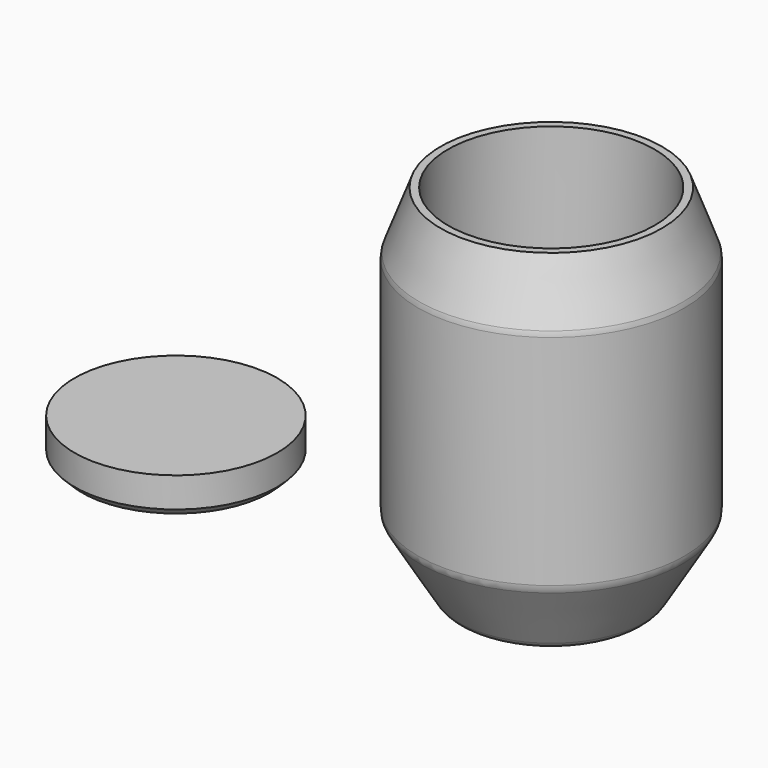
from build123d import *

# Parameters (mm, degrees)
F0_R     = 17.75
F0_R_2   = 13.75
F0_R_3   = 9.75
F0_R_4   = 5
F1_DEPTH = 20
F2_DEPTH = 26
F3_DEPTH = 48
F4_SIZE2 = 6
F4_SIZE  = 10
F5_SIZE2 = 8
F5_SIZE  = 3
F0_R_5   = 13.5
F6_DEPTH = 5
F7_SIZE  = 1
F8_R     = 2


with BuildPart() as f1:
    # F0 (on Top) → F1 (new body)
    with BuildSketch(Plane.XY):
        Circle(F0_R)
        Circle(F0_R_2, mode=Mode.SUBTRACT)
        Circle(F0_R_2)
        Circle(F0_R_3, mode=Mode.SUBTRACT)
        Circle(F0_R_3)
        Circle(F0_R_4, mode=Mode.SUBTRACT)
    extrude(amount=F1_DEPTH)

    # F0 (on Top) → F2 (join)
    with BuildSketch(Plane.XY):
        Circle(F0_R)
        Circle(F0_R_2, mode=Mode.SUBTRACT)
        Circle(F0_R_2)
        Circle(F0_R_3, mode=Mode.SUBTRACT)
    extrude(amount=F2_DEPTH)

    # F0 (on Top) → F3 (join)
    with BuildSketch(Plane.XY):
        Circle(F0_R)
        Circle(F0_R_2, mode=Mode.SUBTRACT)
    extrude(amount=F3_DEPTH)

    # F4
    f4_edges = [f1.edges().sort_by_distance(p)[0] for p in [
        (-17.75, 0, 0),
    ]]
    f4_side = f1.faces().sort_by_distance((-17.75, 0, 24))[0]
    chamfer(f4_edges, length=F4_SIZE, length2=F4_SIZE2, reference=f4_side)

    # F5
    f5_edges = [f1.edges().sort_by_distance(p)[0] for p in [
        (-17.75, 0, 48),
    ]]
    f5_side = f1.faces().sort_by_distance((-17.247954, 0, 48))[0]
    chamfer(f5_edges, length=F5_SIZE, length2=F5_SIZE2, reference=f5_side)

    # F8
    f8_edges = [f1.edges().sort_by_distance(p)[0] for p in [
        (-9.75, 0, 26),
        (-5, 0, 20),
        (14.75, 0, 5),
        (-17.75, 0, 10),
        (-11.75, 0, 0),
        (-17.75, 0, 40),
    ]]
    fillet(f8_edges, radius=F8_R)


with BuildPart() as f6:
    # F0 (on Top) → F6 (new body)
    with BuildSketch(Plane.XY):
        with Locations((-50, 0)):
            Circle(F0_R_5)
    extrude(amount=F6_DEPTH)

    # F7
    f7_edges = [f6.edges().sort_by_distance(p)[0] for p in [
        (-63.5, 0, 0),
    ]]
    chamfer(f7_edges, length=F7_SIZE)


solid = Compound([f1.part, f6.part])
